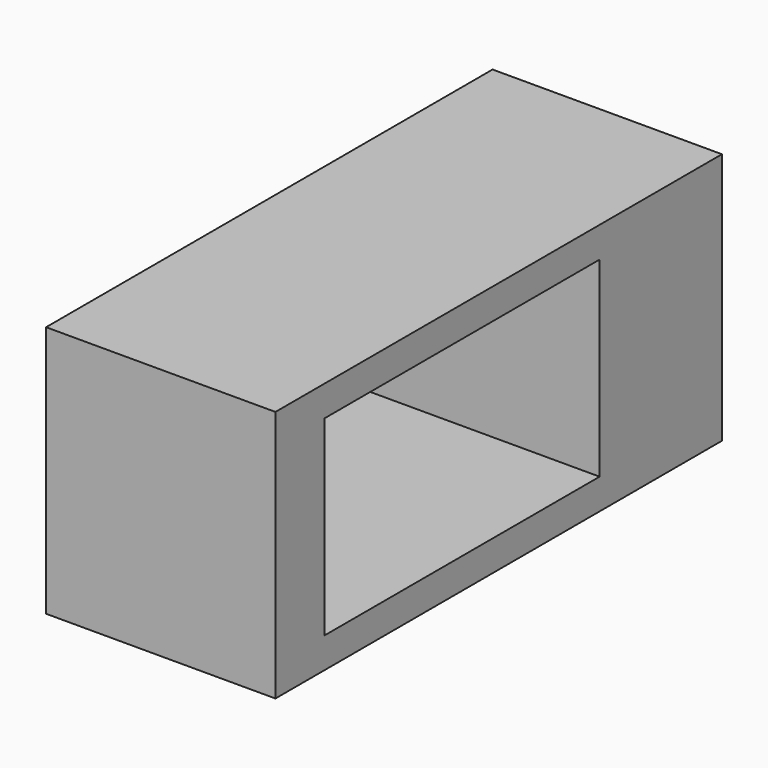
from build123d import *

# Parameters (mm, degrees)
F0_W     = 45
F0_H     = 4
F1_DEPTH = 30


with BuildPart() as f1:
    # F0 (on Right) → F1 (new body)
    with BuildSketch(Plane.YZ):
        Polygon((0, -4), (0, 0), (0, 25), (0, 29), (-8, 29), (-8, -4), align=None)
        with Locations((22.5, 27)):
            Rectangle(F0_W, F0_H)
        with Locations((22.5, -2)):
            Rectangle(F0_W, F0_H)
        Polygon((45, 25), (45, 0), (45, -4), (65, -4), (65, 29), (45, 29), align=None)
    extrude(amount=F1_DEPTH)


solid = f1.part
